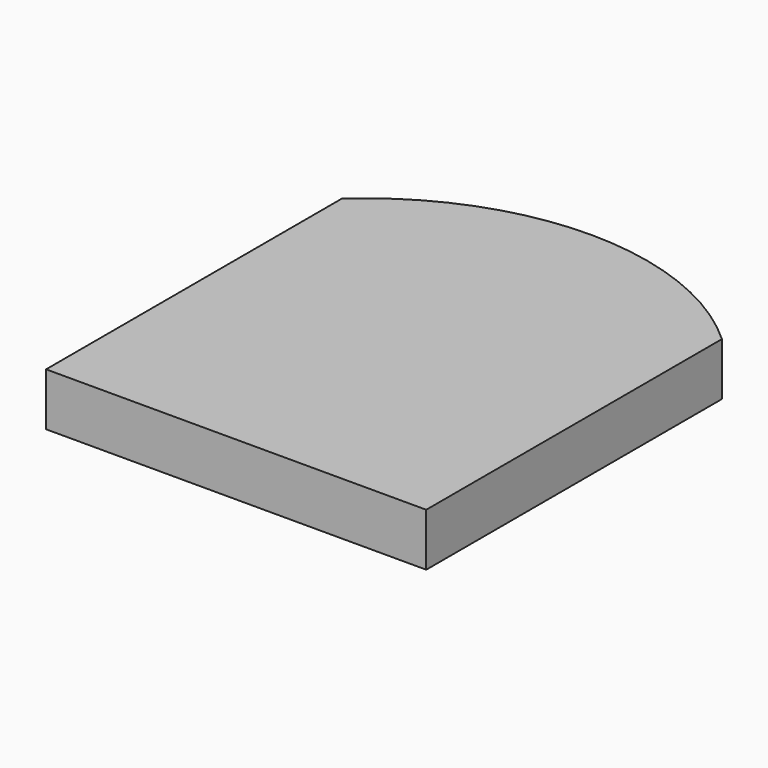
from build123d import *

# Parameters (mm, degrees)
F1_DEPTH = 125
F2_R     = 46.677597
F3_DEPTH = 80
F4_R     = 15


with BuildPart() as f1:
    # F0 (on Top) → F1 (new body, symmetric)
    with BuildSketch(Plane.XY):
        with BuildLine():
            Line((-900, -875), (900, -875))
            Line((900, -875), (900, 875))
            ThreePointArc((900, 875), (0, 1225), (-900, 875))
            Line((-900, 875), (-900, -875))
        make_face()
    extrude(amount=F1_DEPTH, both=True)

    # F2 (on face) → F3 (join)
    with BuildSketch(Plane(origin=(0, 0, -125), x_dir=(1, 0, 0), z_dir=(0, 0, -1))):
        with Locations((-747.428477, -51.44228)):
            Circle(F2_R)
    extrude(amount=F3_DEPTH)

    # F4
    f4_edges = [f1.edges().sort_by_distance(p)[0] for p in [
        (-794.106074, 51.44228, -205),
    ]]
    fillet(f4_edges, radius=F4_R)


solid = f1.part
